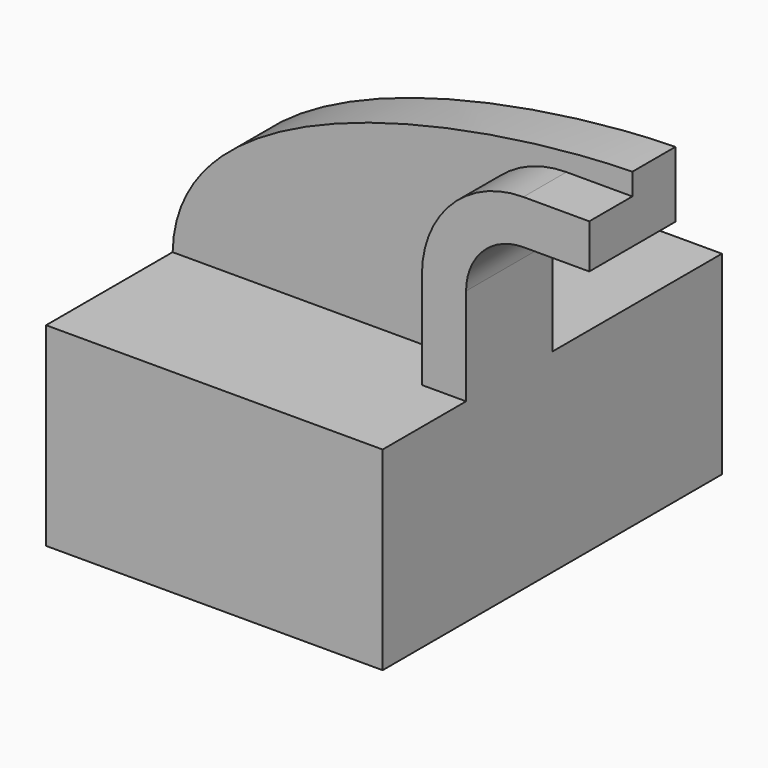
from build123d import *

# Parameters (mm, degrees)
F1_DEPTH = 50
F2_DEPTH = 25.4
F3_DEPTH = 12.7


with BuildPart() as f1:
    # F0 (on Front) → F1 (new body, symmetric)
    with BuildSketch(Plane.XZ):
        Polygon((39.676692, -22.906134), (39.676692, 22.906134), (29.262691, 22.906134), (-39.676692, 22.906134), (-39.676692, -22.906134), align=None)
    extrude(amount=F1_DEPTH, both=True)

    # F0 (on Front) → F2 (join)
    with BuildSketch(Plane.XZ):
        with BuildLine():
            Line((29.262691, 22.906134), (39.676692, 22.906134))
            Line((39.676692, 22.906134), (39.676692, 45.812268))
            ThreePointArc((39.676692, 45.812268), (43.628779, 55.35345), (53.169962, 59.305537))
            Line((53.169962, 59.305537), (68.718389, 59.305537))
            Line((68.718389, 59.305537), (68.718389, 69.719538))
            Line((68.718389, 69.719538), (53.169962, 69.719538))
            ThreePointArc((53.169962, 69.719538), (36.264969, 62.717261), (29.262691, 45.812268))
            Line((29.262691, 45.812268), (29.262691, 22.906134))
        make_face()
    extrude(amount=F2_DEPTH)

    # F0 (on Front) → F3 (join)
    with BuildSketch(Plane.XZ):
        with BuildLine():
            Line((-39.676692, 22.906134), (29.262691, 22.906134))
            Line((29.262691, 22.906134), (29.262691, 45.812268))
            ThreePointArc((29.262691, 45.812268), (36.264969, 62.717261), (53.169962, 69.719538))
            Line((53.169962, 69.719538), (68.718389, 69.719538))
            Line((68.718389, 69.719538), (68.718389, 74.853972))
            add(Edge.make_bspline(
                [(-39.676692, 22.906134), (-38.920954, 61.494272), (33.526827, 74.314252), (68.718389, 74.853972)],
                knots=[0, 0, 0, 0, 120.200131, 120.200131, 120.200131, 120.200131], degree=3))
        make_face()
    extrude(amount=F3_DEPTH)


solid = f1.part
